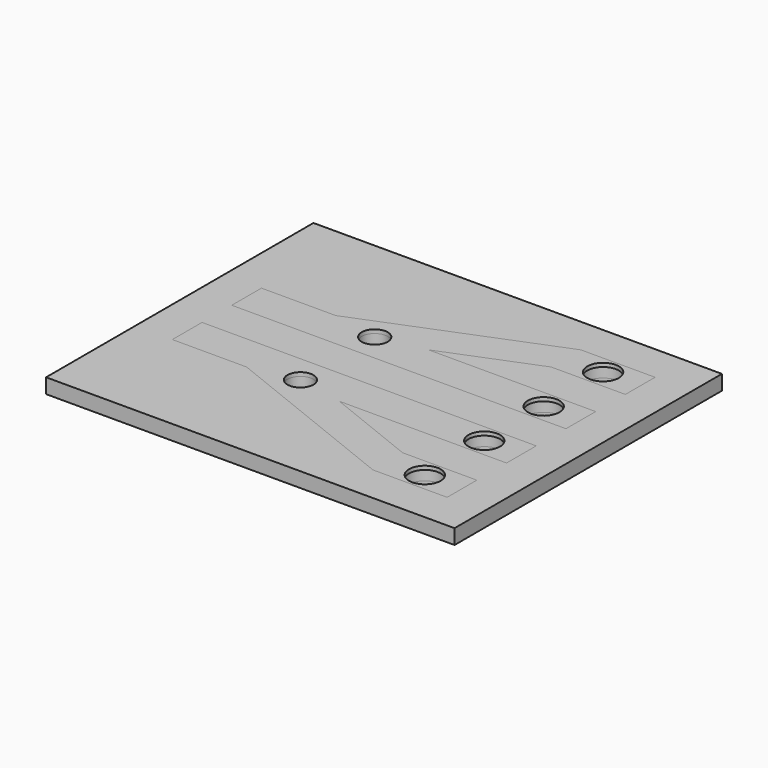
from build123d import *

# Parameters (mm, degrees)
F0_W      = 110
F0_H      = 90
F1_DEPTH  = 4
F5_DEPTH  = 1
F6_DEPTH  = 1
F4_R      = 3.5
F4_R_2    = 4.25
F7_DEPTH  = 4
F8_R      = 5
F9_DEPTH  = 3
F10_R     = 7
F10_R_2   = 5
F11_DEPTH = 4
F12_R     = 3.5
F13_DEPTH = 4
F15_R     = 1.5
F16_DEPTH = 7


with BuildPart() as f1:
    # F0 (on Top) → F1 (new body)
    with BuildSketch(Plane.XY):
        Rectangle(F0_W, F0_H)
    extrude(amount=-F1_DEPTH)

    # F3 (on Top) → F5 (cut)
    with BuildSketch(Plane.XY):
        Polygon((-25, 15), (-45, 15), (-45, 5), (45, 5), (45, 15), (0, 15), (25, 25), (45, 25), (45, 35), (25, 35), align=None)
        Polygon((45, -25), (25, -25), (0, -15), (45, -15), (45, -5), (-45, -5), (-45, -15), (-25, -15), (25, -35), (45, -35), align=None)
    extrude(amount=-F5_DEPTH, mode=Mode.SUBTRACT)


with BuildPart() as f6:
    # F3 (on Top) → F6 (new body)
    with BuildSketch(Plane.XY):
        Polygon((-25, 15), (-45, 15), (-45, 5), (45, 5), (45, 15), (0, 15), (25, 25), (45, 25), (45, 35), (25, 35), align=None)
    extrude(amount=-F6_DEPTH)


with BuildPart() as f6b:
    # F3 (on Top) → F6, piece 2 (new body)
    with BuildSketch(Plane.XY):
        Polygon((45, -25), (25, -25), (0, -15), (45, -15), (45, -5), (-45, -5), (-45, -15), (-25, -15), (25, -35), (45, -35), align=None)
    extrude(amount=-F6_DEPTH)


with BuildPart() as f7_tool:
    # F4 (on Top) → F7 (new body, through all)
    with BuildSketch(Plane.XY):
        with Locations((-12.5, 12.5)):
            Circle(F4_R)
        with Locations((35, 30)):
            Circle(F4_R_2)
        with Locations((35, 10)):
            Circle(F4_R_2)
        with Locations((35, -10)):
            Circle(F4_R_2)
        with Locations((35, -30)):
            Circle(F4_R_2)
        with Locations((-12.5, -12.5)):
            Circle(F4_R)
    extrude(amount=-F7_DEPTH)


with BuildPart() as f1_1:
    add(f1.part)

    # F7: cut by f7_tool
    add(f7_tool.part, mode=Mode.SUBTRACT)

    # F8 (on offset) → F9 (cut, through all)
    with BuildSketch(Plane(origin=(0, 0, -4), x_dir=(1, 0, 0), z_dir=(0, 0, -1))):
        with Locations((35, -30)):
            Circle(F8_R)
        with Locations((35, -10)):
            Circle(F8_R)
        with Locations((35, 10)):
            Circle(F8_R)
        with Locations((35, 30)):
            Circle(F8_R)
    extrude(amount=-F9_DEPTH, mode=Mode.SUBTRACT)

    # F10 (on offset) → F11 (join)
    with BuildSketch(Plane(origin=(0, 0, -4), x_dir=(1, 0, 0), z_dir=(0, 0, -1))):
        with Locations((35, -30)):
            Circle(F10_R)
        with Locations((35, -30)):
            Circle(F10_R_2, mode=Mode.SUBTRACT)
        with Locations((35.000000149, -10)):
            Circle(F10_R)
        with Locations((35.000000149, -10)):
            Circle(F10_R_2, mode=Mode.SUBTRACT)
        with Locations((35.000000149, 10)):
            Circle(F10_R)
        with Locations((35.000000149, 10)):
            Circle(F10_R_2, mode=Mode.SUBTRACT)
        with Locations((35.000000149, 30)):
            Circle(F10_R)
        with Locations((35.000000149, 30)):
            Circle(F10_R_2, mode=Mode.SUBTRACT)
    extrude(amount=F11_DEPTH)

    # F12 (on offset) → F13 (join)
    with BuildSketch(Plane(origin=(0, 0, -4), x_dir=(1, 0, 0), z_dir=(0, 0, -1))):
        with Locations((10, -35)):
            Circle(F12_R)
        with Locations((-10, -35)):
            Circle(F12_R)
    extrude(amount=F13_DEPTH)

    # F15 (on offset) → F16 (cut)
    with BuildSketch(Plane(origin=(0, 0, -8), x_dir=(1, 0, 0), z_dir=(0, 0, -1))):
        with Locations((10, -35)):
            Circle(F15_R)
        with Locations((-10, -35)):
            Circle(F15_R)
    extrude(amount=-F16_DEPTH, mode=Mode.SUBTRACT)


with BuildPart() as f6_1:
    add(f6.part)

    # F7: cut by f7_tool
    add(f7_tool.part, mode=Mode.SUBTRACT)


with BuildPart() as f6b_1:
    add(f6b.part)

    # F7: cut by f7_tool
    add(f7_tool.part, mode=Mode.SUBTRACT)


solid = Compound([f1_1.part, f6_1.part, f6b_1.part])
